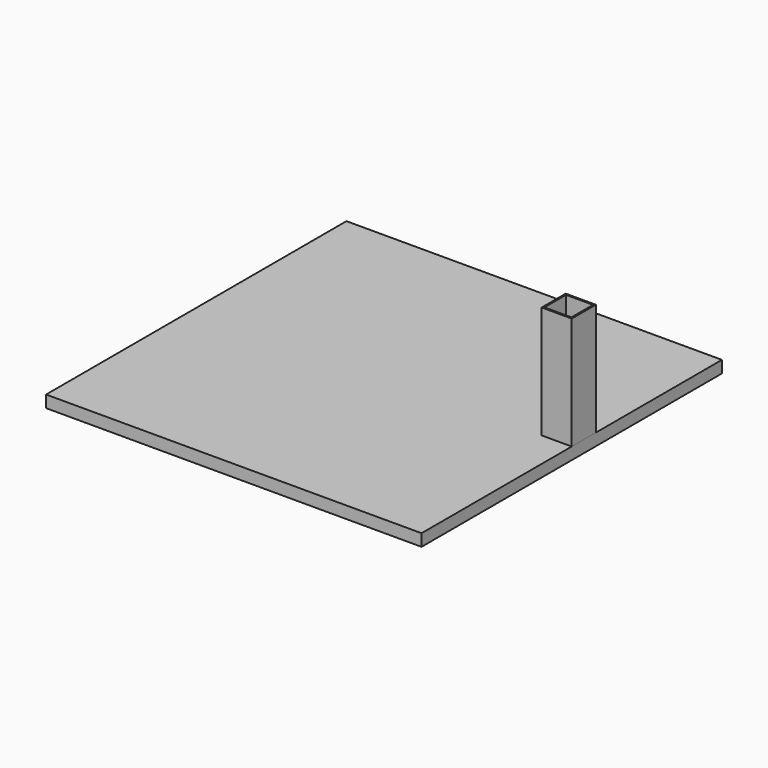
from build123d import *

# Parameters (mm, degrees)
F0_W     = 500
F0_H     = 500
F1_DEPTH = 16
F2_W     = 40
F2_H     = 40
F2_W_2   = 36
F2_H_2   = 36
F3_DEPTH = 150


with BuildPart() as f1:
    # F0 (on Top) → F1 (new body)
    with BuildSketch(Plane.XY):
        Rectangle(F0_W, F0_H)
    extrude(amount=F1_DEPTH)


with BuildPart() as f3:
    # F2 (on face) → F3 (new body)
    with BuildSketch(Plane.XY.offset(16)):
        with Locations((230, 20)):
            Rectangle(F2_W, F2_H)
        with Locations((230, 20)):
            Rectangle(F2_W_2, F2_H_2, mode=Mode.SUBTRACT)
    extrude(amount=F3_DEPTH)


solid = Compound([f1.part, f3.part])
